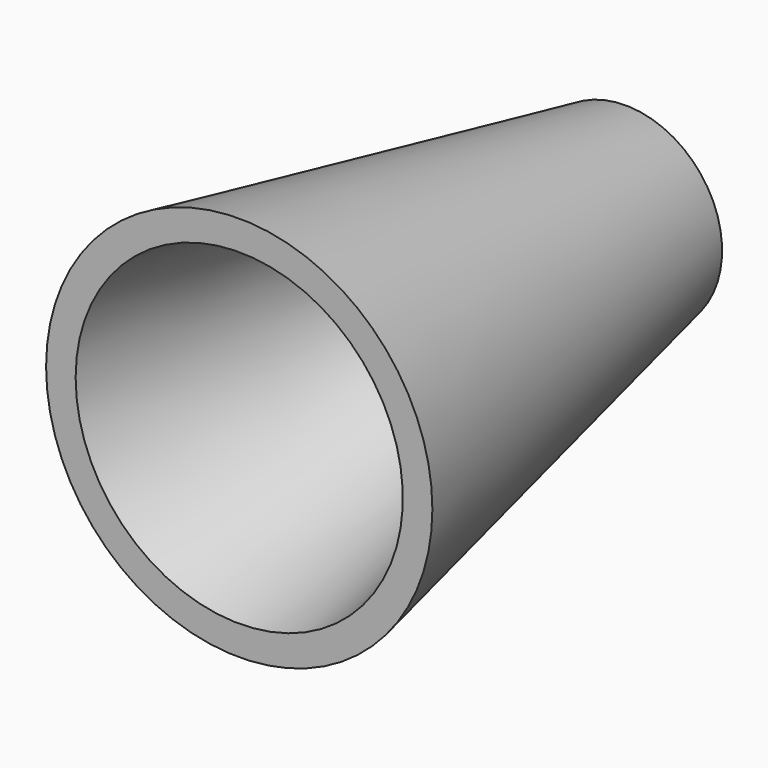
from build123d import *

# Parameters (mm, degrees)
F0_R       = 10
F1_DEPTH   = 25
F2_R       = 5
F1_FACE1_R = 10
F4_T       = -1.5


with BuildPart() as f1:
    # F0 (on Front) → F1 (new body)
    with BuildSketch(Plane.XZ):
        with Locations((-40.1614755392, 37.4492704868)):
            Circle(F0_R)
    extrude(amount=F1_DEPTH)

    # F2 (on face) → F3 section 0
    with BuildSketch(Plane(origin=(0, 0, 0), x_dir=(-1, 0, 0), z_dir=(0, 1, 0))):
        with Locations((40.1614755392, 37.4492704868)):
            Circle(F2_R)
    # F1_face1 (on face) → F3 section 1
    with BuildSketch(Plane(origin=(-40.1614755392, -25, 37.4492704868), x_dir=(1, 0, 0), z_dir=(0, -1, 0))):
        Circle(F1_FACE1_R)
    loft(mode=Mode.INTERSECT)

    # F4
    f4_openings = [f1.faces().sort_by_distance(p)[0] for p in [
        (-40.161476, -25, 37.44927),
        (-40.161476, 0, 37.44927),
    ]]
    offset(amount=F4_T, openings=f4_openings, kind=Kind.INTERSECTION)


solid = f1.part
